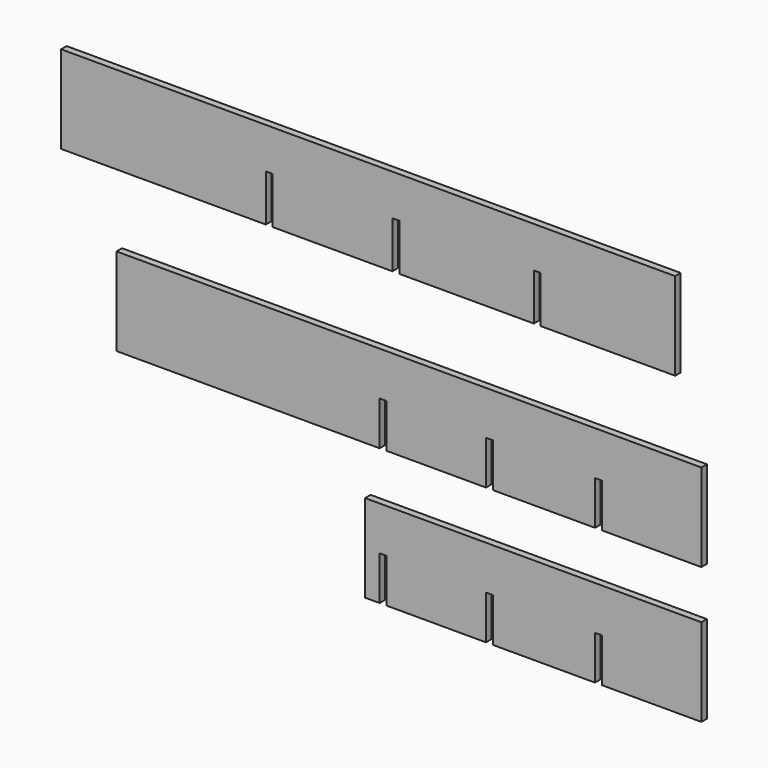
from build123d import *

# Parameters (mm, degrees)
F1_DEPTH = 3
F3_DEPTH = 3
F5_W     = 107.95
F5_H     = 38.1
F6_DEPTH = 25.4


with BuildPart() as f1:
    # F0 (on Front) → F1 (new body)
    with BuildSketch(Plane.XZ):
        Polygon((-58.42, 0), (0, 0), (0, 38.1), (-266.7, 38.1), (-266.7, 0), (-177.8, 0), (-177.8, 20.32), (-174.8, 20.32), (-174.8, 0), (-122.84, 0), (-122.84, 20.32), (-119.84, 20.32), (-119.84, 0), (-61.42, 0), (-61.42, 20.32), (-58.42, 20.32), align=None)
    extrude(amount=F1_DEPTH)


with BuildPart() as f3:
    # F2 (on Front) → F3 (new body)
    with BuildSketch(Plane.XZ):
        Polygon((11.3536544591, -31.3604824736), (-242.6463455409, -31.3604824736), (-242.6463455409, -69.4604824736), (-128.3463455409, -69.4604824736), (-128.3463455409, -50.4104824736), (-125.3463455409, -50.4104824736), (-125.3463455409, -69.4604824736), (-82.1663455409, -69.4604824736), (-82.1663455409, -50.4104824736), (-79.1663455409, -50.4104824736), (-79.1663455409, -69.4604824736), (-34.8263455409, -69.4604824736), (-34.8263455409, -50.4104824736), (-31.8263455409, -50.4104824736), (-31.8263455409, -69.4604824736), (11.3536544591, -69.4604824736), align=None)
    extrude(amount=F3_DEPTH)


with BuildPart() as f4_1:
    # F4: copy of F3
    add(f3.part.moved(Location((0, 0, -59.182))))

    # F5 (on face) → F6 (cut)
    with BuildSketch(Plane.XZ.offset(3)):
        with Locations((-188.6713455409, -109.5924824736)):
            Rectangle(F5_W, F5_H)
    extrude(amount=-F6_DEPTH, mode=Mode.SUBTRACT)


solid = Compound([f1.part, f3.part, f4_1.part])
